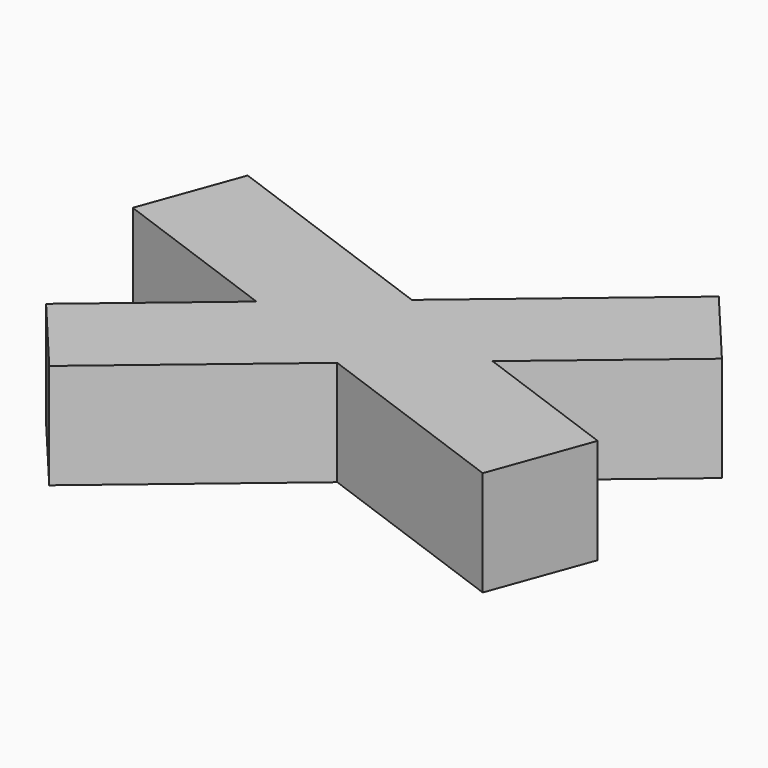
from build123d import *

# Parameters (mm, degrees)
BOX001_W               = 10
BOX001_H               = 2
BOX001_DEPTH           = 2
BOX001_PLACEMENT_ANGLE = 340
BOX_W                  = 10
BOX_H                  = 2
BOX_DEPTH              = 2
BOX_PLACEMENT_ANGLE    = 40


with BuildPart() as cube001:
    # Box001 → Box001 (new body)
    with BuildSketch(Plane.XY):
        with Locations((5, 1)):
            Rectangle(BOX001_W, BOX001_H)
    extrude(amount=BOX001_DEPTH)


with BuildPart() as cube001_1:
    # Box001 placement: moved
    add(cube001.part.moved(Location((-0.040483, 1.770408, 0))).rotate(Axis((-0.040483, 1.770408, 0), (0, 0, 1)), BOX001_PLACEMENT_ANGLE))


with BuildPart() as fusion:
    # Box → Box (new body)
    with BuildSketch(Plane.XY):
        with Locations((5, 1)):
            Rectangle(BOX_W, BOX_H)
    extrude(amount=BOX_DEPTH)


with BuildPart() as fusion_1:
    # Box placement: moved
    add(fusion.part.moved(Location((2.17, -2.98, 0))).rotate(Axis((2.17, -2.98, 0), (0, 0, 1)), BOX_PLACEMENT_ANGLE))

    # Fusion: union Cube001
    add(cube001_1.part)


solid = fusion_1.part
